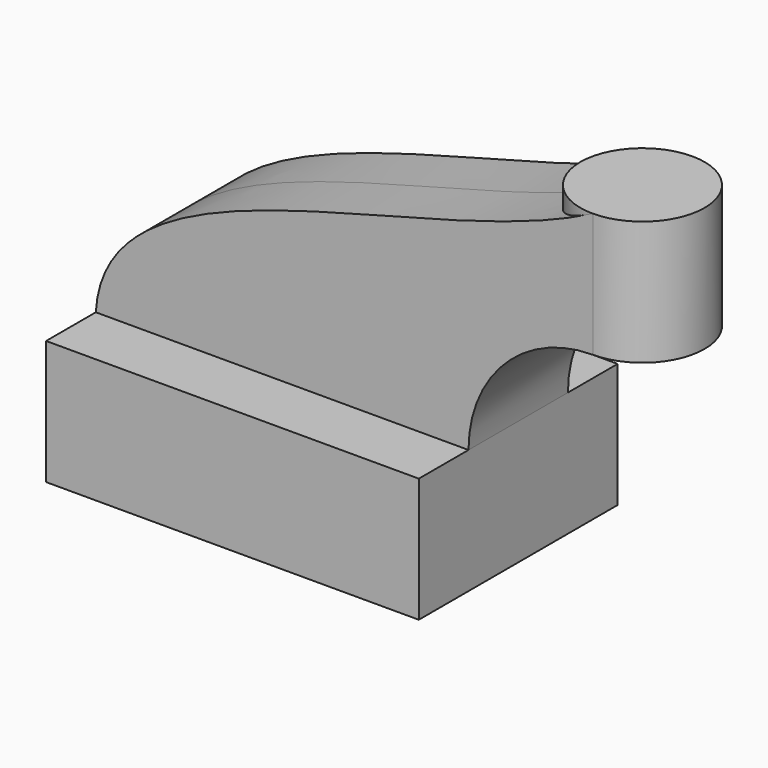
from build123d import *

# Parameters (mm, degrees)
F0_W     = 150
F0_H     = 50
F1_DEPTH = 50
F2_DEPTH = 25
F0_W_2   = 25


with BuildPart() as f1:
    # F0 (on Front) → F1 (new body, symmetric)
    with BuildSketch(Plane.XZ):
        with Locations((-75, -25)):
            Rectangle(F0_W, F0_H)
    extrude(amount=F1_DEPTH, both=True)

    # F0 (on Front) → F2 (join, symmetric)
    with BuildSketch(Plane.XZ):
        with BuildLine():
            Line((-150, 0), (0, 0))
            ThreePointArc((0, 0), (14.644661, 35.355339), (50, 50))
            Line((50, 50), (50, 100))
            add(Edge.make_bspline(
                [(-150, 0), (-146.281272, 63.885584), (-17.262463, 65.02264), (50, 100)],
                knots=[0, 0, 0, 0, 223.606798, 223.606798, 223.606798, 223.606798], degree=3))
        make_face()
    extrude(amount=F2_DEPTH, both=True)

    # F0 (on Front) → F3 (revolve)
    with BuildSketch(Plane.XZ):
        with Locations((62.5, 75)):
            Rectangle(F0_W_2, F0_H)
    revolve(axis=Axis((50, 0, 75), (0, 0, 1)))


solid = f1.part
